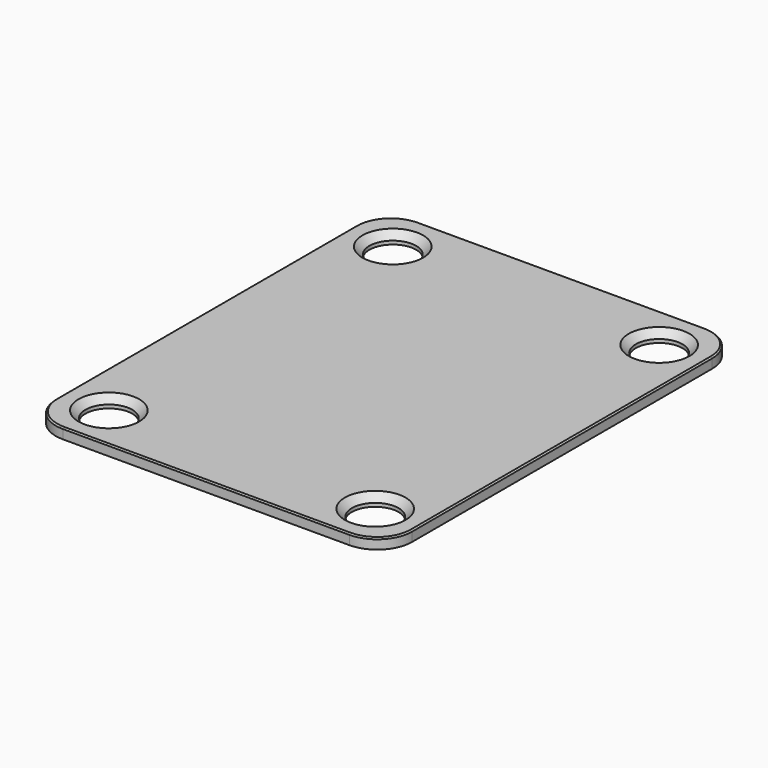
from build123d import *

# Parameters (mm, degrees)
F0_R     = 3.35
F1_DEPTH = 1.5
F2_SIZE  = 1
F3_SIZE  = 0.2


with BuildPart() as f1:
    # F0 (on Top) → F1 (new body)
    with BuildSketch(Plane.XY):
        with BuildLine():
            Line((20.55, 31.9), (-20.55, 31.9))
            ThreePointArc((-20.55, 31.9), (-24.085534, 30.435534), (-25.55, 26.9))
            Line((-25.55, 26.9), (-25.55, -26.9))
            ThreePointArc((-25.55, -26.9), (-24.085534, -30.435534), (-20.55, -31.9))
            Line((-20.55, -31.9), (20.55, -31.9))
            ThreePointArc((20.55, -31.9), (24.085534, -30.435534), (25.55, -26.9))
            Line((25.55, -26.9), (25.55, 26.9))
            ThreePointArc((25.55, 26.9), (24.085534, 30.435534), (20.55, 31.9))
        make_face()
        with Locations((-19.1, -25.45)):
            Circle(F0_R, mode=Mode.SUBTRACT)
        with Locations((19.1, -25.45)):
            Circle(F0_R, mode=Mode.SUBTRACT)
        with Locations((-19.1, 25.45)):
            Circle(F0_R, mode=Mode.SUBTRACT)
        with Locations((19.1, 25.45)):
            Circle(F0_R, mode=Mode.SUBTRACT)
    extrude(amount=F1_DEPTH)

    # F2
    f2_edges = [f1.edges().sort_by_distance(p)[0] for p in [
        (-22.45, 25.45, 1.5),
        (15.75, 25.45, 1.5),
        (15.75, -25.45, 1.5),
        (-22.45, -25.45, 1.5),
    ]]
    chamfer(f2_edges, length=F2_SIZE)

    # F3
    f3_edges = [f1.edges().sort_by_distance(p)[0] for p in [
        (-24.085534, 30.435534, 1.5),
        (-25.55, 0, 1.5),
        (-24.085534, -30.435534, 1.5),
        (0, 31.9, 1.5),
        (24.085534, 30.435534, 1.5),
        (25.55, 0, 1.5),
        (24.085534, -30.435534, 1.5),
        (0, -31.9, 1.5),
    ]]
    chamfer(f3_edges, length=F3_SIZE)


solid = f1.part
